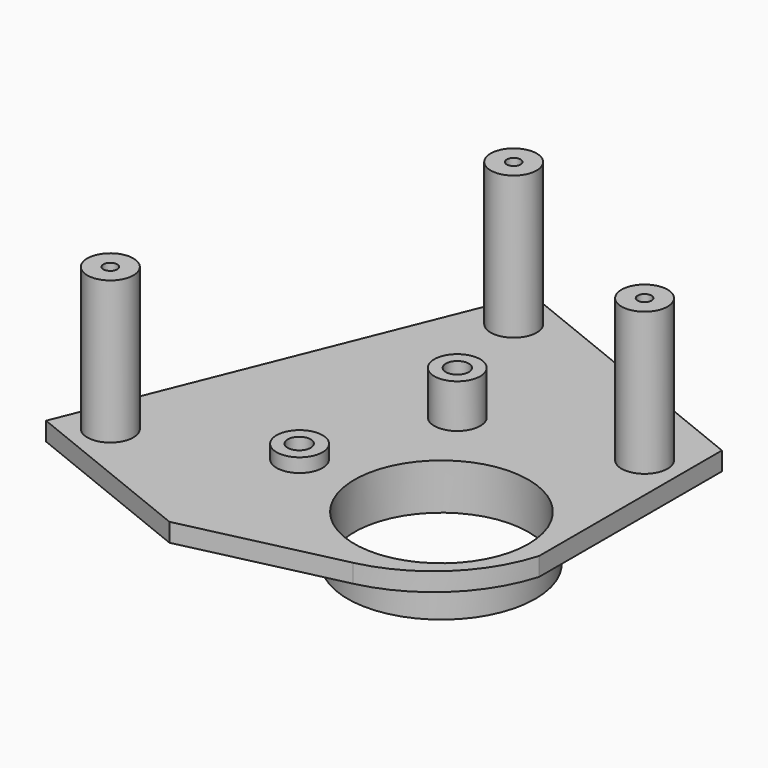
from build123d import *

# Parameters (mm, degrees)
F0_R     = 20.4
F0_R_2   = 18.9
F1_DEPTH = 10
F0_R_3   = 2.5
F2_DEPTH = 4
F3_R     = 5
F3_R_2   = 2.5
F4_DEPTH = 3
F5_DEPTH = 9.5
F3_R_3   = 1.5
F6_DEPTH = 31


with BuildPart() as f1:
    # F0 (on Top) → F1 (new body)
    with BuildSketch(Plane.XY):
        Circle(F0_R)
        Circle(F0_R_2, mode=Mode.SUBTRACT)
    extrude(amount=-F1_DEPTH)

    # F0 (on Top) → F2 (join)
    with BuildSketch(Plane.XY):
        with BuildLine():
            Line((-37.936959, 71.902178), (-73.271744, -15.75))
            Line((-73.271744, -15.75), (-33.738027, -31.68703))
            Line((-33.738027, -31.68703), (0, -23.967391))
            ThreePointArc((0, -23.967391), (14.458763, -16.268714), (23.060463, -2.328261))
            Line((23.060463, -2.328261), (23.060463, 47.312592))
            Line((23.060463, 47.312592), (-37.936959, 71.902178))
        make_face()
        with Locations((-30.9, 0)):
            Circle(F0_R_3, mode=Mode.SUBTRACT)
        Circle(F0_R, mode=Mode.SUBTRACT)
        with Locations((-19.540395, 28.736203)):
            Circle(F0_R_3, mode=Mode.SUBTRACT)
    extrude(amount=-F2_DEPTH)

    # F3 (on face) → F4 (join)
    with BuildSketch(Plane.XY):
        with Locations((-30.81522, 0)):
            Circle(F3_R)
        with Locations((-30.9, 0)):
            Circle(F3_R_2, mode=Mode.SUBTRACT)
    extrude(amount=F4_DEPTH)

    # F3 (on face) → F5 (join)
    with BuildSketch(Plane.XY):
        with Locations((-19.565957, 28.747549)):
            Circle(F3_R)
        with Locations((-19.540395, 28.736203)):
            Circle(F3_R_2, mode=Mode.SUBTRACT)
    extrude(amount=F5_DEPTH)

    # F3 (on face) → F6 (join)
    with BuildSketch(Plane.XY):
        with Locations((15.060463, 36.312592)):
            Circle(F3_R)
        with Locations((15.060463, 36.312592)):
            Circle(F3_R_3, mode=Mode.SUBTRACT)
        with Locations((-33.508272, 61.491284)):
            Circle(F3_R)
        with Locations((-33.508272, 61.491284)):
            Circle(F3_R_3, mode=Mode.SUBTRACT)
        with Locations((-62.860849, -11.321312)):
            Circle(F3_R)
        with Locations((-62.860849, -11.321312)):
            Circle(F3_R_3, mode=Mode.SUBTRACT)
    extrude(amount=F6_DEPTH)


solid = f1.part
